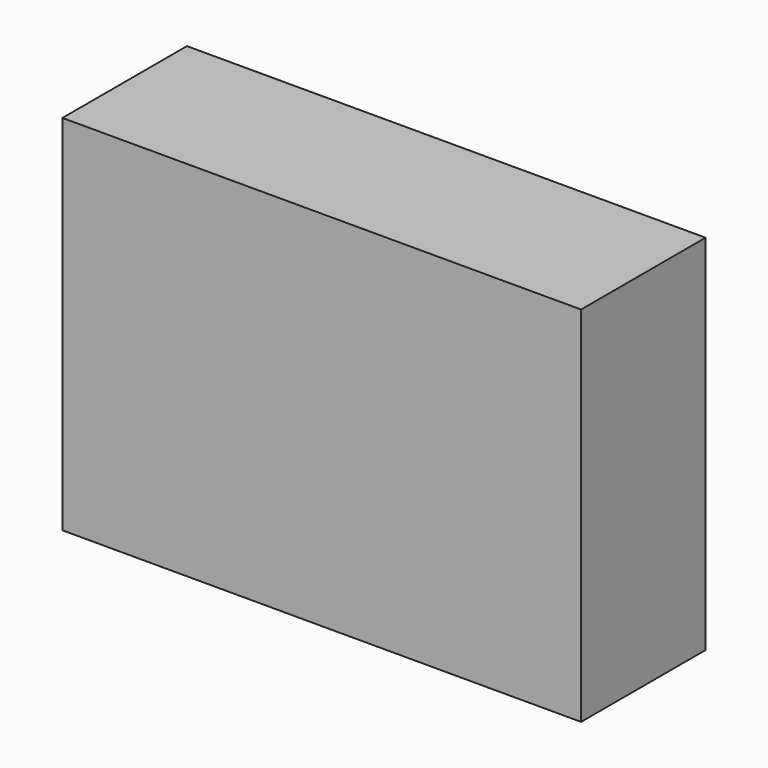
from build123d import *

# Parameters (mm, degrees)
SKETCH_W  = 100
SKETCH_H  = 30
PAD_DEPTH = 70


with BuildPart() as part:
    # Sketch → Pad (new body)
    with BuildSketch(Plane.XY):
        with Locations((50, 15)):
            Rectangle(SKETCH_W, SKETCH_H)
    extrude(amount=PAD_DEPTH)


solid = part.part
